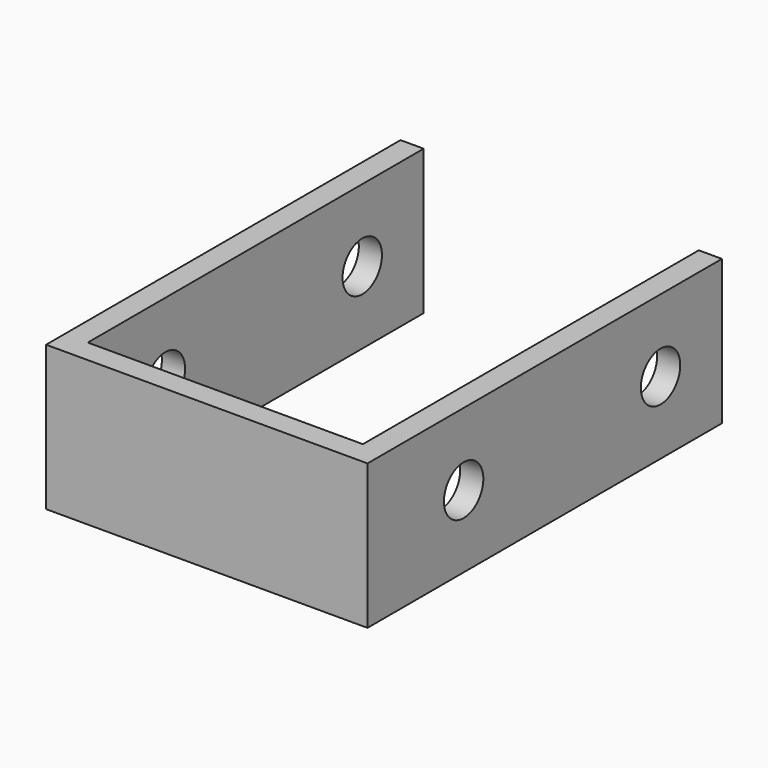
from build123d import *

# Parameters (mm, degrees)
F1_DEPTH = 10
F2_R     = 1.7
F3_DEPTH = 22.201


with BuildPart() as f1:
    # F0 (on Top) → F1 (new body)
    with BuildSketch(Plane.XY):
        Polygon((0, 1.6), (0, 0), (22.2, 0), (22.2, 1.6), (22.2, 5.6), (22.2, 30.6), (20.6, 30.6), (20.6, 5.6), (20.6, 1.6), (1.6, 1.6), (1.6, 5.6), (1.6, 30.6), (0, 30.6), (0, 5.6), align=None)
    extrude(amount=F1_DEPTH)

    # F2 (on face) → F3 (cut, through all)
    with BuildSketch(Plane(origin=(0, 0, 0), x_dir=(0, -1, 0), z_dir=(-1, 0, 0))):
        with Locations((-25.3, 5)):
            Circle(F2_R)
        with Locations((-8.3, 5)):
            Circle(F2_R)
    extrude(amount=-F3_DEPTH, mode=Mode.SUBTRACT)


solid = f1.part
